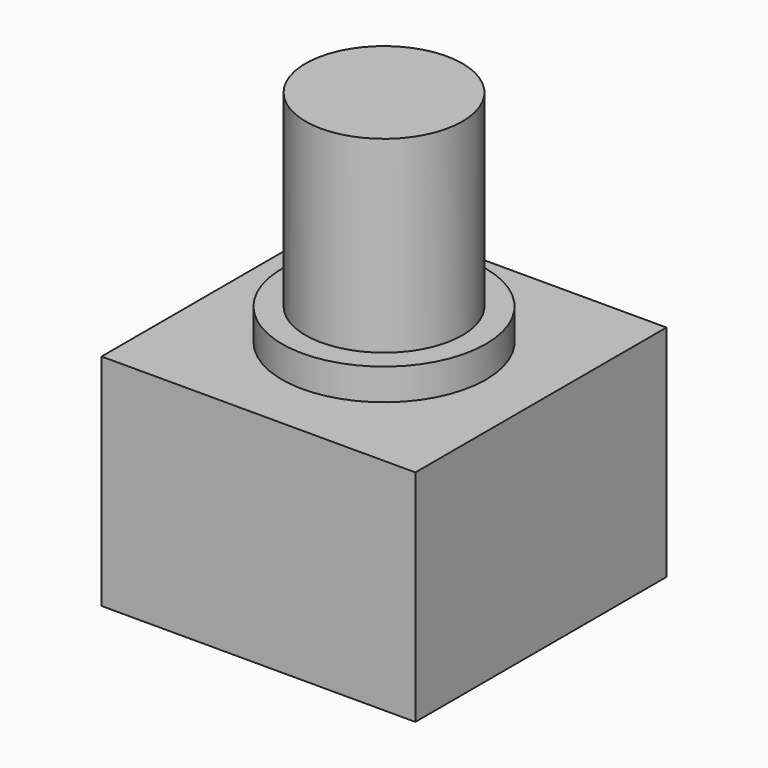
from build123d import *

# Parameters (mm, degrees)
F0_W     = 12.7
F0_H     = 12.7
F1_DEPTH = 8.89
F2_R     = 4.1275
F3_DEPTH = 1.27
F4_R     = 3.175
F5_DEPTH = 7.62


with BuildPart() as f1:
    # F0 (on Top) → F1 (new body)
    with BuildSketch(Plane.XY):
        Rectangle(F0_W, F0_H)
    extrude(amount=F1_DEPTH)

    # F2 (on face) → F3 (join)
    with BuildSketch(Plane.XY.offset(8.89)):
        Circle(F2_R)
    extrude(amount=F3_DEPTH)

    # F4 (on face) → F5 (join)
    with BuildSketch(Plane.XY.offset(10.16)):
        Circle(F4_R)
    extrude(amount=F5_DEPTH)


solid = f1.part
